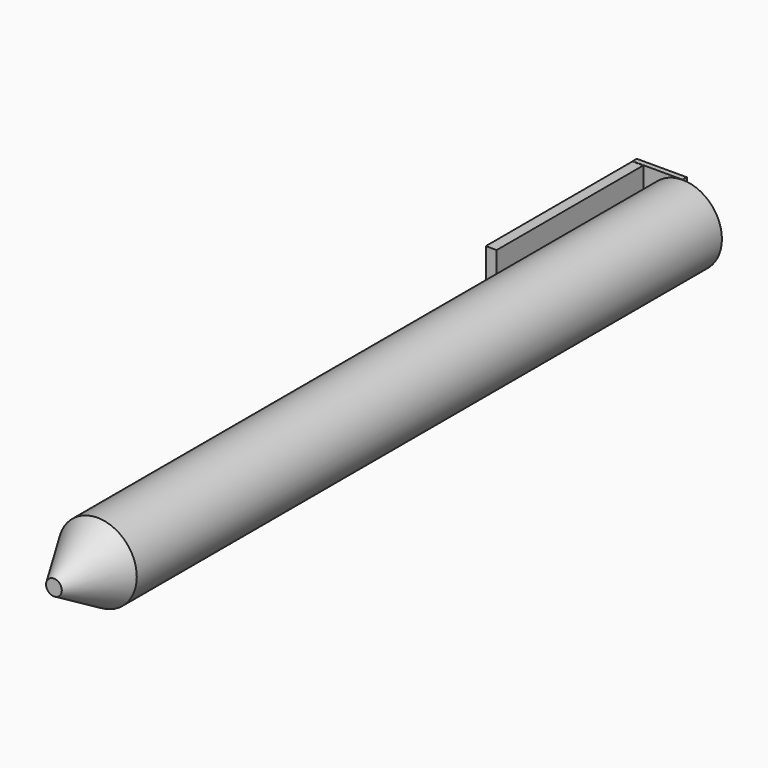
from build123d import *

# Parameters (mm, degrees)
F0_R     = 7.5
F1_DEPTH = 150
F2_SIZE2 = 10.3923048454
F2_SIZE  = 6
F3_W     = 2.0689371228
F3_H     = 15
F4_DEPTH = 35
F5_W     = 9.547568392
F5_H     = 15.0018753484
F6_DEPTH = 1


with BuildPart() as f1:
    # F0 (on Front) → F1 (new body)
    with BuildSketch(Plane.XZ):
        Circle(F0_R)
    extrude(amount=F1_DEPTH)

    # F2
    f2_edges = [f1.edges().sort_by_distance(p)[0] for p in [
        (-7.5, -150, 0),
    ]]
    f2_side = f1.faces().sort_by_distance((0, -150, 0))[0]
    chamfer(f2_edges, length=F2_SIZE, length2=F2_SIZE2, reference=f2_side)

    # F3 (on Front) → F4 (join)
    with BuildSketch(Plane.XZ):
        with Locations((-8.5344685614, 0)):
            Rectangle(F3_W, F3_H)
    extrude(amount=F4_DEPTH)


with BuildPart() as f6:
    # F5 (on Front) → F6 (new body)
    with BuildSketch(Plane.XZ):
        with Locations((-4.773784196, 0.0417637639)):
            Rectangle(F5_W, F5_H)
    extrude(amount=-F6_DEPTH)


solid = Compound([f1.part, f6.part])
